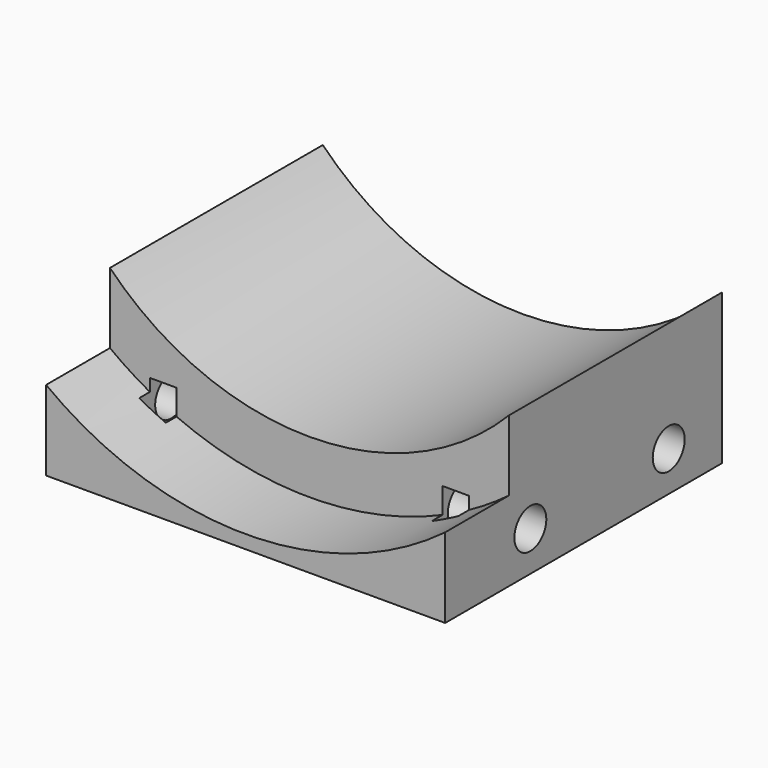
from build123d import *

# Parameters (mm, degrees)
CYLINDER2795_R     = 1.5
CYLINDER2795_DEPTH = 64
CYLINDER2794_R     = 1.5
CYLINDER2794_DEPTH = 64
CYLINDER2793_R     = 38
CYLINDER2793_DEPTH = 30
BOX983_W           = 2
BOX983_H           = 6
BOX983_DEPTH       = 6
BOX984_W           = 2
BOX984_H           = 6
BOX984_DEPTH       = 6
BOX985_W           = 2
BOX985_H           = 6
BOX985_DEPTH       = 6
BOX986_W           = 2
BOX986_H           = 6
BOX986_DEPTH       = 6
BOX987_W           = 2
BOX987_H           = 6
BOX987_DEPTH       = 6
BOX989_W           = 2
BOX989_H           = 6
BOX989_DEPTH       = 6
TUBE139_R          = 21
TUBE139_R_2        = 2
TUBE139_DEPTH      = 64
TUBE140_R          = 25
TUBE140_R_2        = 2
TUBE140_DEPTH      = 26
BOX988_W           = 30
BOX988_H           = 64
BOX988_DEPTH       = 18
BOX982_W           = 30
BOX982_H           = 26
BOX982_DEPTH       = 18


with BuildPart() as obj1:
    # Cylinder2795 → Cylinder2795 (new body)
    with BuildSketch(Plane(origin=(-26, 12, 14), x_dir=(0, 0, -1), z_dir=(1, 0, 0))):
        Circle(CYLINDER2795_R)
    extrude(amount=CYLINDER2795_DEPTH)


with BuildPart() as compound1245:
    # Cylinder2794 → Cylinder2794 (new body)
    with BuildSketch(Plane(origin=(-26, -1, 14), x_dir=(0, 0, -1), z_dir=(1, 0, 0))):
        Circle(CYLINDER2794_R)
    extrude(amount=CYLINDER2794_DEPTH)

    # Compound1245: union obj1
    add(obj1.part)


with BuildPart() as obj2:
    # Cylinder2793 → Cylinder2793 (new body)
    with BuildSketch(Plane.XY):
        Circle(CYLINDER2793_R)
    extrude(amount=CYLINDER2793_DEPTH)


with BuildPart() as krychle982:
    # Box983 → Box983 (new body)
    with BuildSketch(Plane(origin=(-12, -4, 10), x_dir=(1, 0, 0), z_dir=(0, 0, 1))):
        with Locations((1, 3)):
            Rectangle(BOX983_W, BOX983_H)
    extrude(amount=BOX983_DEPTH)


with BuildPart() as krychle983:
    # Box984 → Box984 (new body)
    with BuildSketch(Plane(origin=(10, 26, 10), x_dir=(1, 0, 0), z_dir=(0, 0, 1))):
        with Locations((1, 3)):
            Rectangle(BOX984_W, BOX984_H)
    extrude(amount=BOX984_DEPTH)


with BuildPart() as krychle984:
    # Box985 → Box985 (new body)
    with BuildSketch(Plane(origin=(-12, 26, 10), x_dir=(1, 0, 0), z_dir=(0, 0, 1))):
        with Locations((1, 3)):
            Rectangle(BOX985_W, BOX985_H)
    extrude(amount=BOX985_DEPTH)


with BuildPart() as krychle985:
    # Box986 → Box986 (new body)
    with BuildSketch(Plane(origin=(10, 12, 10), x_dir=(1, 0, 0), z_dir=(0, 0, 1))):
        with Locations((1, 3)):
            Rectangle(BOX986_W, BOX986_H)
    extrude(amount=BOX986_DEPTH)


with BuildPart() as krychle986:
    # Box987 → Box987 (new body)
    with BuildSketch(Plane(origin=(-12, 12, 10), x_dir=(1, 0, 0), z_dir=(0, 0, 1))):
        with Locations((1, 3)):
            Rectangle(BOX987_W, BOX987_H)
    extrude(amount=BOX987_DEPTH)


with BuildPart() as compound1244:
    # Box989 → Box989 (new body)
    with BuildSketch(Plane(origin=(10, -4, 10), x_dir=(1, 0, 0), z_dir=(0, 0, 1))):
        with Locations((1, 3)):
            Rectangle(BOX989_W, BOX989_H)
    extrude(amount=BOX989_DEPTH)

    # Compound1244: union Krychle982, Krychle983, Krychle984, Krychle985, Krychle986
    add(krychle982.part)
    add(krychle983.part)
    add(krychle984.part)
    add(krychle985.part)
    add(krychle986.part)


with BuildPart() as tube139:
    # Tube139 → Tube139 (new body)
    with BuildSketch(Plane(origin=(0, 61, 37), x_dir=(1, 0, 0), z_dir=(0, -1, 0))):
        Circle(TUBE139_R)
        Circle(TUBE139_R_2, mode=Mode.SUBTRACT)
    extrude(amount=TUBE139_DEPTH)


with BuildPart() as tube140:
    # Tube140 → Tube140 (new body)
    with BuildSketch(Plane(origin=(0, -3, 37), x_dir=(1, 0, 0), z_dir=(0, -1, 0))):
        Circle(TUBE140_R)
        Circle(TUBE140_R_2, mode=Mode.SUBTRACT)
    extrude(amount=TUBE140_DEPTH)


with BuildPart() as common009:
    # Box988 → Box988 (new body)
    with BuildSketch(Plane(origin=(-15, -17, 11), x_dir=(1, 0, 0), z_dir=(0, 0, 1))):
        with Locations((15, 32)):
            Rectangle(BOX988_W, BOX988_H)
    extrude(amount=BOX988_DEPTH)

    # Cut1053: cut Tube140
    add(tube140.part, mode=Mode.SUBTRACT)

    # Cut1054: cut Tube139
    add(tube139.part, mode=Mode.SUBTRACT)

    # Cut1055: cut Compound1244
    add(compound1244.part, mode=Mode.SUBTRACT)

    # Common009: intersect obj2
    add(obj2.part, mode=Mode.INTERSECT)


with BuildPart() as cut1056:
    # Box982 → Box982 (new body)
    with BuildSketch(Plane(origin=(-15, -9, 11), x_dir=(1, 0, 0), z_dir=(0, 0, 1))):
        with Locations((15, 13)):
            Rectangle(BOX982_W, BOX982_H)
    extrude(amount=BOX982_DEPTH)

    # Common010: intersect Common009
    add(common009.part, mode=Mode.INTERSECT)

    # Cut1056: cut Compound1245
    add(compound1245.part, mode=Mode.SUBTRACT)


solid = cut1056.part
